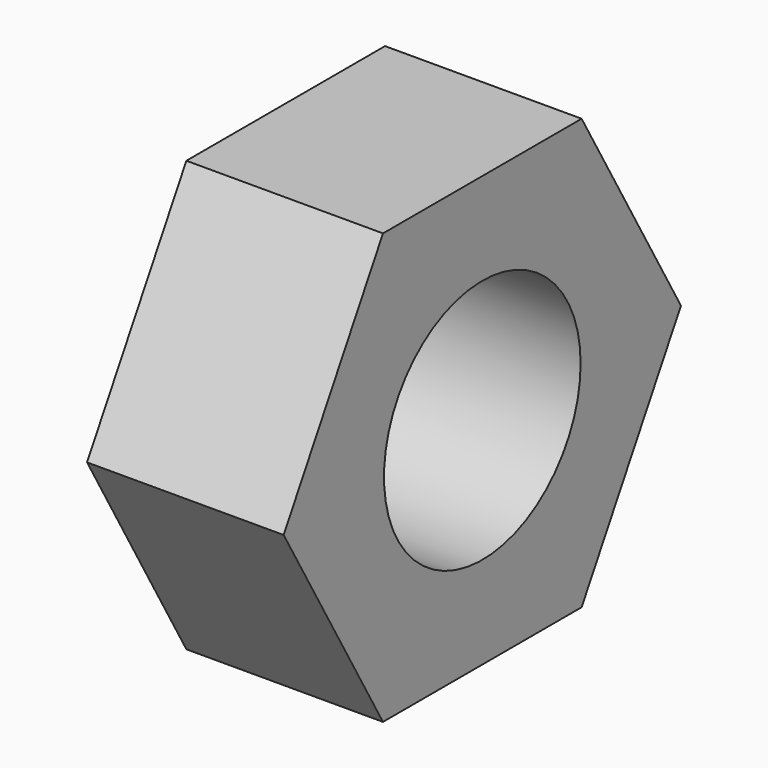
from build123d import *

# Parameters (mm, degrees)
F0_R     = 2
F1_DEPTH = 3.2


with BuildPart() as f1:
    # F0 (on Right) → F1 (new body)
    with BuildSketch(Plane.YZ):
        Polygon((2.020726, 3.5), (-2.020726, 3.5), (-4.041452, 0), (-2.020726, -3.5), (2.020726, -3.5), (4.041452, 0), align=None)
        Circle(F0_R, mode=Mode.SUBTRACT)
    extrude(amount=F1_DEPTH)


solid = f1.part
